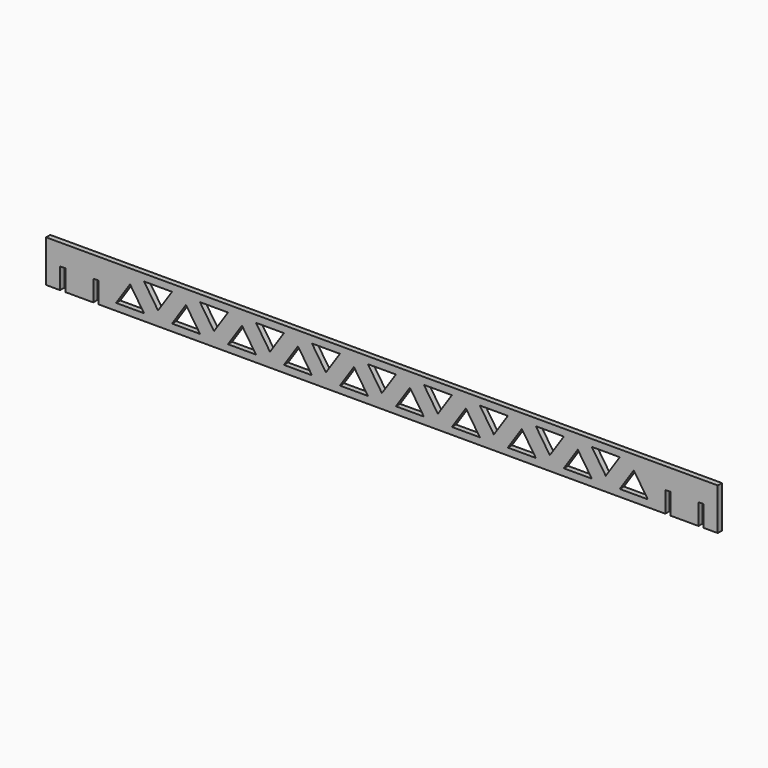
from build123d import *

# Parameters (mm, degrees)
F1_DEPTH = 4.7625


with BuildPart() as f1:
    # F0 (on Front) → F1 (new body)
    with BuildSketch(Plane.XZ):
        Polygon((0, 38.1), (0, 0), (12.7, 0), (12.7, 19.05), (17.4625, 19.05), (17.4625, 0), (42.8625, 0), (42.8625, 19.05), (47.625, 19.05), (47.625, 0), (304.8, 0), (561.975, 0), (561.975, 19.05), (566.7375, 19.05), (566.7375, 0), (592.1375, 0), (592.1375, 19.05), (596.9, 19.05), (596.9, 0), (609.6, 0), (609.6, 38.1), align=None)
        Polygon((88.9, 6.35), (63.5, 6.35), (76.2, 25.4), align=None, mode=Mode.SUBTRACT)
        Polygon((114.3, 6.35), (127, 25.4), (139.7, 6.35), align=None, mode=Mode.SUBTRACT)
        Polygon((165.1, 6.35), (177.8, 25.4), (190.5, 6.35), align=None, mode=Mode.SUBTRACT)
        Polygon((215.9, 6.35), (228.6, 25.4), (241.3, 6.35), align=None, mode=Mode.SUBTRACT)
        Polygon((266.7, 6.35), (279.4, 25.4), (292.1, 6.35), align=None, mode=Mode.SUBTRACT)
        Polygon((330.2, 25.4), (342.9, 6.35), (317.5, 6.35), align=None, mode=Mode.SUBTRACT)
        Polygon((381, 25.4), (393.7, 6.35), (368.3, 6.35), align=None, mode=Mode.SUBTRACT)
        Polygon((431.8, 25.4), (444.5, 6.35), (419.1, 6.35), align=None, mode=Mode.SUBTRACT)
        Polygon((482.6, 25.4), (495.3, 6.35), (469.9, 6.35), align=None, mode=Mode.SUBTRACT)
        Polygon((533.4, 25.4), (546.1, 6.35), (520.7, 6.35), align=None, mode=Mode.SUBTRACT)
        Polygon((101.6, 12.7), (88.9, 31.75), (114.3, 31.75), align=None, mode=Mode.SUBTRACT)
        Polygon((165.1, 31.75), (152.4, 12.7), (139.7, 31.75), align=None, mode=Mode.SUBTRACT)
        Polygon((215.9, 31.75), (203.2, 12.7), (190.5, 31.75), align=None, mode=Mode.SUBTRACT)
        Polygon((266.7, 31.75), (254, 12.7), (241.3, 31.75), align=None, mode=Mode.SUBTRACT)
        Polygon((317.5, 31.75), (304.8, 12.7), (292.1, 31.75), align=None, mode=Mode.SUBTRACT)
        Polygon((368.3, 31.75), (355.6, 12.7), (342.9, 31.75), align=None, mode=Mode.SUBTRACT)
        Polygon((406.4, 12.7), (393.7, 31.75), (419.1, 31.75), align=None, mode=Mode.SUBTRACT)
        Polygon((469.9, 31.75), (457.2, 12.7), (444.5, 31.75), align=None, mode=Mode.SUBTRACT)
        Polygon((508, 12.7), (495.3, 31.75), (520.7, 31.75), align=None, mode=Mode.SUBTRACT)
    extrude(amount=F1_DEPTH)


solid = f1.part
